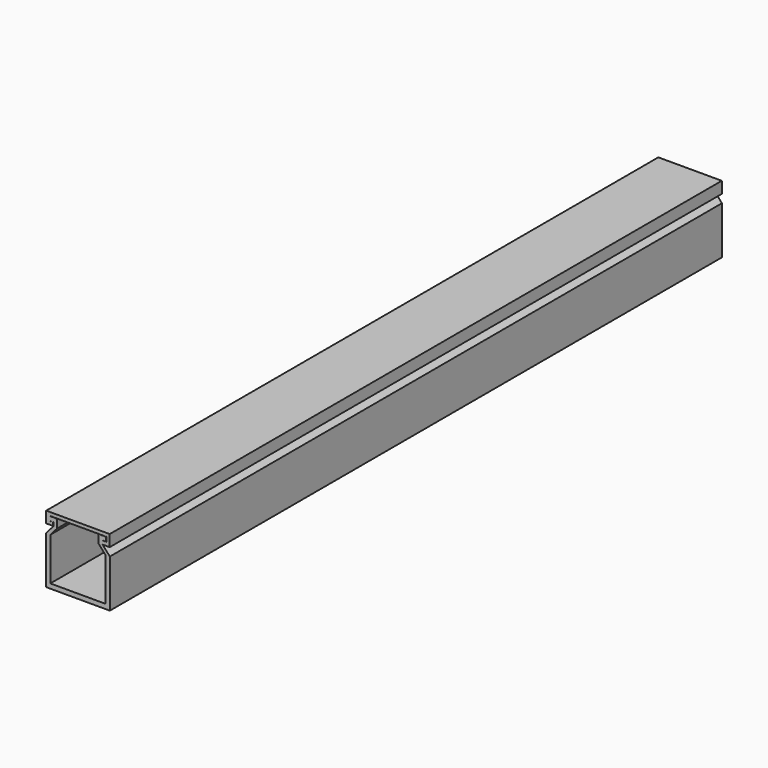
from build123d import *

# Parameters (mm, degrees)
PAD_DEPTH    = 180
PAD001_DEPTH = 180


with BuildPart() as part:
    # Sketch → Pad (new body)
    with BuildSketch(Plane.XZ):
        Polygon((1.709151, 14), (0.847738, 14), (0.847738, 15), (2.609062, 15), (2.609062, 12.991093), (1, 11.170912), (1, 1.090989), (14, 1.090989), (14, 11.170912), (12.390938, 12.991093), (12.390938, 15), (14.152262, 15), (14.152262, 14), (13.290849, 14), (13.290849, 13.145577), (15, 11.212176), (15, 0), (0, 0), (0, 11.212176), (1.709151, 13.145577), align=None)
    extrude(amount=PAD_DEPTH)

    # Sketch001 → Pad001 (join)
    with BuildSketch(Plane.XZ):
        Polygon((1.670899, 13.98237), (0.833981, 13.98237), (0.833981, 15.0478), (14.219909, 15.0478), (14.219909, 13.970164), (13.277989, 13.970164), (13.277989, 13.140446), (14.96773, 13.140446), (14.96773, 15.855778), (0.035527, 15.855778), (0.035527, 13.198529), (1.670899, 13.198529), align=None)
    extrude(amount=PAD001_DEPTH)


solid = part.part
